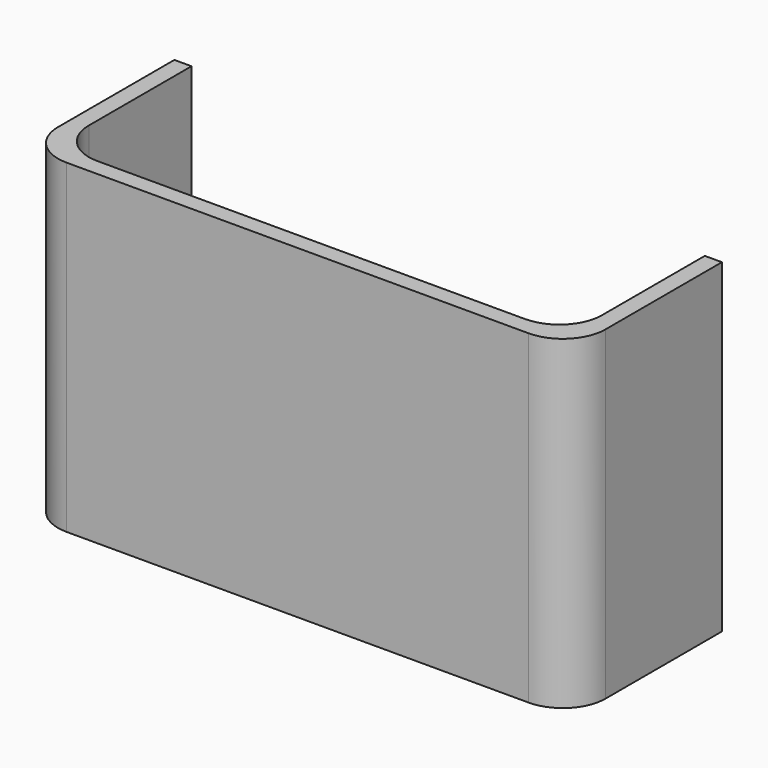
from build123d import *

# Parameters (mm, degrees)
F1_DEPTH = 38


with BuildPart() as f1:
    # F0 (on Top) → F1 (new body)
    with BuildSketch(Plane.XY):
        with BuildLine():
            Line((25, 0), (0, 0))
            Line((0, 0), (-25, 0))
            ThreePointArc((-25, 0), (-28.535534, 1.464466), (-30, 5))
            Line((-30, 5), (-30, 20))
            Line((-30, 20), (-32, 20))
            Line((-32, 20), (-32, 3))
            ThreePointArc((-32, 3), (-30.535534, -0.535534), (-27, -2))
            Line((-27, -2), (0, -2))
            Line((0, -2), (27, -2))
            ThreePointArc((27, -2), (30.535534, -0.535534), (32, 3))
            Line((32, 3), (32, 20))
            Line((32, 20), (30, 20))
            Line((30, 20), (30, 5))
            ThreePointArc((30, 5), (28.535534, 1.464466), (25, 0))
        make_face()
    extrude(amount=F1_DEPTH)


solid = f1.part
